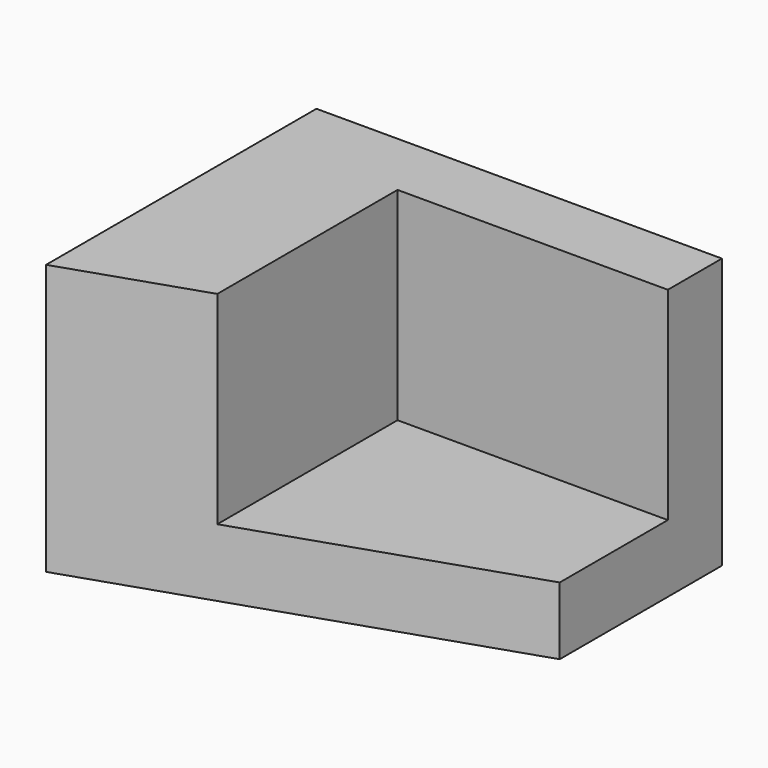
from build123d import *

# Parameters (mm, degrees)
F1_DEPTH = 50.8
F2_W     = 50.8
F2_H     = 38.1
F3_DEPTH = 12.7
F5_DEPTH = 50.801


with BuildPart() as f1:
    # F0 (on Front) → F1 (new body)
    with BuildSketch(Plane.XZ):
        Polygon((0, 50.8), (0, 0), (76.2, 0), (76.2, 12.7), (25.4, 12.7), (25.4, 50.8), align=None)
    extrude(amount=F1_DEPTH)

    # F2 (on face) → F3 (join)
    with BuildSketch(Plane(origin=(0, 0, 0), x_dir=(-1, 0, 0), z_dir=(0, 1, 0))):
        with Locations((-50.8, 31.75)):
            Rectangle(F2_W, F2_H)
        Polygon((-76.2, 0), (0, 0), (0, 50.8), (-25.4, 50.8), (-25.4, 12.7), (-76.2, 12.7), align=None)
    extrude(amount=F3_DEPTH)

    # F4 (on face) → F5 (cut, through all)
    with BuildSketch(Plane(origin=(0, 0, 0), x_dir=(1, 0, 0), z_dir=(0, 0, -1))):
        Polygon((0, 50.8), (76.2, 25.4), (76.2, 50.8), align=None)
    extrude(amount=-F5_DEPTH, mode=Mode.SUBTRACT)


solid = f1.part
